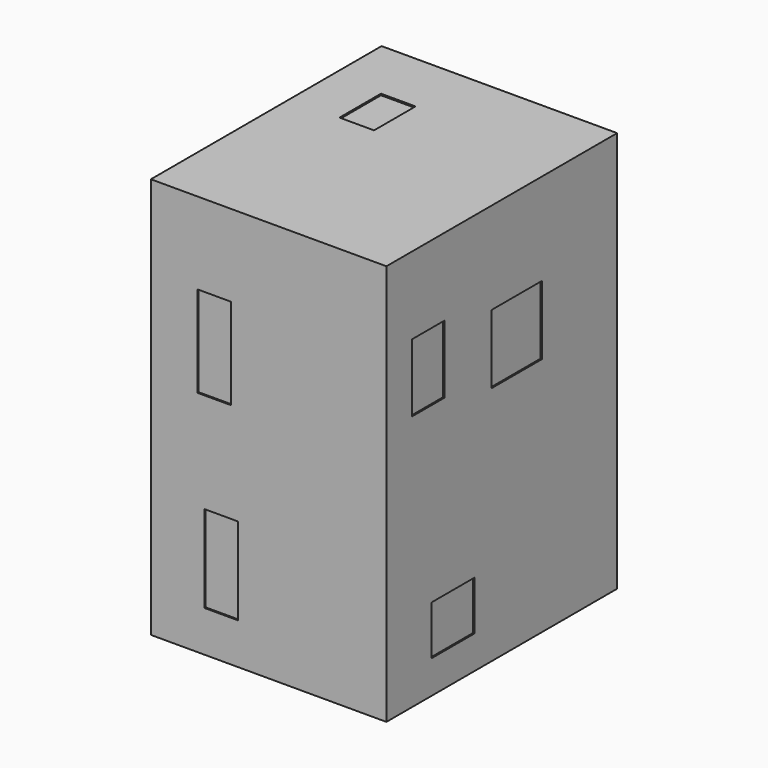
from build123d import *

# Parameters (mm, degrees)
F0_W     = 5000
F0_H     = 7000
F1_DEPTH = 4100
F2_W     = 5000
F2_H     = 7000
F2_W_2   = 939.845443
F2_H_2   = 861.487865
F2_W_3   = 715.46793
F2_H_3   = 1189.927101
F2_W_4   = 1097.420633
F2_H_4   = 1207.084894
F3_DEPTH = 25.4
F5_DEPTH = 25.4
F6_W     = 4125.4
F6_H     = 5025.4
F6_W_2   = 605.365574
F6_H_2   = 908.323109
F7_DEPTH = 25.4
F8_W     = 4125.4
F8_H     = 7025.4
F8_W_2   = 587.859869
F8_H_2   = 1525.068283
F8_W_3   = 585.635364
F8_H_3   = 1595.454812
F9_DEPTH = 25.4


with BuildPart() as f1:
    # F0 (on Right) → F1 (new body)
    with BuildSketch(Plane.YZ):
        Rectangle(F0_W, F0_H)
    extrude(amount=F1_DEPTH)

    # F2 (on face) → F3 (join)
    with BuildSketch(Plane.YZ.offset(4100)):
        Rectangle(F2_W, F2_H)
        with Locations((-1068.849325, -2489.496469)):
            Rectangle(F2_W_2, F2_H_2, mode=Mode.SUBTRACT)
        with Locations((-1612.087488, 1576.761008)):
            Rectangle(F2_W_3, F2_H_3, mode=Mode.SUBTRACT)
        with Locations((328.328997, 1312.606573)):
            Rectangle(F2_W_4, F2_H_4, mode=Mode.SUBTRACT)
    extrude(amount=F3_DEPTH)

    # F4 (on face) → F5 (join)
    with BuildSketch(Plane(origin=(0, 2500, 0), x_dir=(-1, 0, 0), z_dir=(0, 1, 0))):
        Polygon((0, -3500), (0, 1175.935984), (-2418.462276, 1175.935984), (-2418.462276, 2834.468126), (0, 2834.468126), (0, 3500), (-4125.4, 3500), (-4125.4, -3500), align=None)
    extrude(amount=F5_DEPTH)

    # F6 (on face) → F7 (join)
    with BuildSketch(Plane.XY.offset(3500)):
        with Locations((2062.7, 12.7)):
            Rectangle(F6_W, F6_H)
        with Locations((1176.195592, 966.041773)):
            Rectangle(F6_W_2, F6_H_2, mode=Mode.SUBTRACT)
    extrude(amount=F7_DEPTH)

    # F8 (on face) → F9 (join)
    with BuildSketch(Plane.XZ.offset(2500)):
        with Locations((2062.7, 12.7)):
            Rectangle(F8_W, F8_H)
        with Locations((1229.253768, -2017.085313)):
            Rectangle(F8_W_2, F8_H_2, mode=Mode.SUBTRACT)
        with Locations((1106.892616, 1295.614898)):
            Rectangle(F8_W_3, F8_H_3, mode=Mode.SUBTRACT)
    extrude(amount=F9_DEPTH)


solid = f1.part
